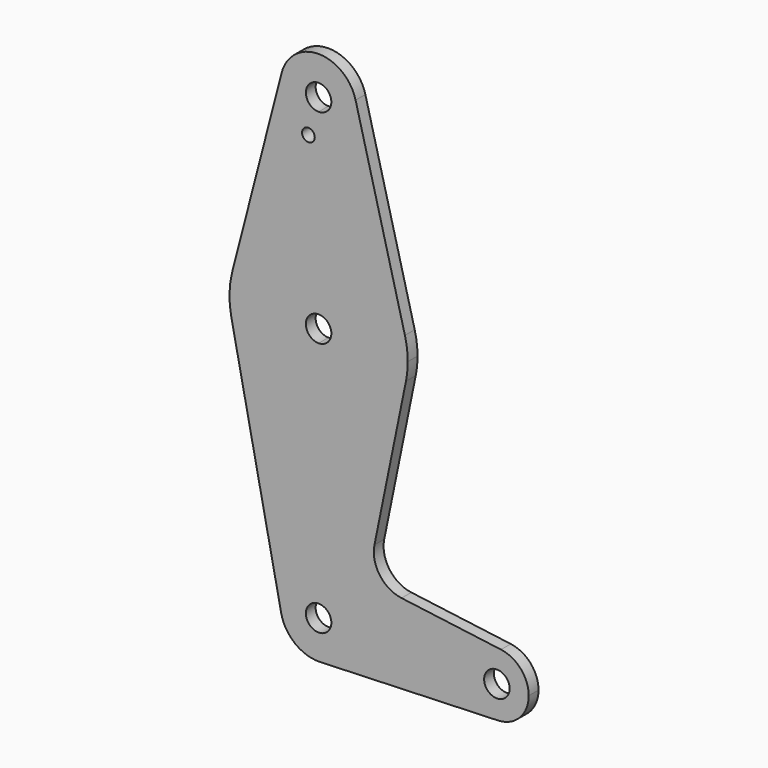
from build123d import *

# Parameters (mm, degrees)
F0_R     = 3.175
F1_DEPTH = 3.048


with BuildPart() as f1:
    # F0 (on Front) → F1 (new body)
    with BuildSketch(Plane.XZ):
        with BuildLine():
            ThreePointArc((-1.0023336327, 43.4057982907), (-0.5018639238, 43.3661433225), (0, 43.3529127479))
            ThreePointArc((0, 43.3529127479), (6.7351920908, 46.1427206571), (9.525, 52.8779127479))
            ThreePointArc((9.525, 52.8779127479), (9.4490828569, 54.0781036338), (9.2225415932, 55.2591627479))
            ThreePointArc((9.2225415932, 55.2591627479), (0, 62.4029127479), (-9.2225415932, 55.2591627479))
            ThreePointArc((-9.2225415932, 55.2591627479), (-8.6217427785, 48.8293109569), (-4.0577774611, 44.2604846468))
            ThreePointArc((-4.0577774611, 44.2604846468), (-2.3007024801, 45.3437609387), (-0.9587182239, 43.7753610313))
            ThreePointArc((-0.9587182239, 43.7753610313), (-0.9696597824, 43.5892972498), (-1.0023336327, 43.4057982907))
        make_face()
        with BuildLine():
            ThreePointArc((3.175, 52.8779127479), (2.2450640303, 50.6328487176), (0, 49.7029127479))
            ThreePointArc((0, 49.7029127479), (-2.2450640303, 55.1229767781), (3.175, 52.8779127479))
        make_face(mode=Mode.SUBTRACT)
        with BuildLine():
            ThreePointArc((9.525, 52.8779127479), (6.7351920908, 46.1427206571), (0, 43.3529127479))
            Line((0, 43.3529127479), (0, 24.3029127479))
            ThreePointArc((0, 24.3029127479), (13.6099773833, 19.6483179972), (21.5192637174, 7.6341627479))
            Line((21.5192637174, 7.6341627479), (9.2225415932, 55.2591627479))
            ThreePointArc((9.2225415932, 55.2591627479), (9.4490828569, 54.0781036338), (9.525, 52.8779127479))
        make_face()
        with BuildLine():
            Line((0, 24.3029127479), (0, 43.3529127479))
            ThreePointArc((0, 43.3529127479), (-0.5018639238, 43.3661433225), (-1.0023336327, 43.4057982907))
            ThreePointArc((-1.0023336327, 43.4057982907), (-2.9738669395, 42.2465468418), (-4.0577774611, 44.2604846468))
            ThreePointArc((-4.0577774611, 44.2604846468), (-8.6217427785, 48.8293109569), (-9.2225415932, 55.2591627479))
            Line((-9.2225415932, 55.2591627479), (-21.5192637174, 7.6341627479))
            ThreePointArc((-21.5192637174, 7.6341627479), (-13.6099773833, 19.6483179972), (0, 24.3029127479))
        make_face()
        with BuildLine():
            ThreePointArc((21.5192637174, 7.6341627479), (13.6099773833, 19.6483179972), (0, 24.3029127479))
            Line((0, 24.3029127479), (0, 5.2529127479))
            ThreePointArc((0, 5.2529127479), (2.2450640303, 4.3229767781), (3.175, 2.0779127479))
            ThreePointArc((3.175, 2.0779127479), (2.2450640303, -0.1671512824), (0, -1.0970872521))
            Line((0, -1.0970872521), (0, -20.1470872521))
            ThreePointArc((0, -20.1470872521), (14.0563241994, -15.137498226), (21.7759638133, -2.3670872521))
            ThreePointArc((21.7759638133, -2.3670872521), (22.1124560005, -0.1558989327), (22.225, 2.0779127479))
            ThreePointArc((22.225, 2.0779127479), (22.0478599995, 4.8783581483), (21.5192637174, 7.6341627479))
        make_face()
        with BuildLine():
            Line((0, 5.2529127479), (0, 24.3029127479))
            ThreePointArc((0, 24.3029127479), (-13.6099773833, 19.6483179972), (-21.5192637174, 7.6341627479))
            ThreePointArc((-21.5192637174, 7.6341627479), (-22.2176828703, 2.6481695983), (-21.7759638133, -2.3670872521))
            ThreePointArc((-21.7759638133, -2.3670872521), (-14.0563241994, -15.137498226), (0, -20.1470872521))
            Line((0, -20.1470872521), (0, -1.0970872521))
            ThreePointArc((0, -1.0970872521), (-3.175, 2.0779127479), (0, 5.2529127479))
        make_face()
        with BuildLine():
            ThreePointArc((0, -20.1470872521), (-14.0563241994, -15.137498226), (-21.7759638133, -2.3670872521))
            Line((-21.7759638133, -2.3670872521), (-9.33255592, -63.3270872521))
            ThreePointArc((-9.33255592, -63.3270872521), (-7.3780332745, -55.3979483095), (0, -51.8970872521))
            Line((0, -51.8970872521), (0, -20.1470872521))
        make_face()
        with BuildLine():
            ThreePointArc((21.7759638133, -2.3670872521), (14.0563241994, -15.137498226), (0, -20.1470872521))
            Line((0, -20.1470872521), (0, -51.8970872521))
            ThreePointArc((0, -51.8970872521), (6.7351920908, -54.6868951613), (9.525, -61.4220872521))
            ThreePointArc((9.525, -61.4220872521), (6.8544083402, -68.0359145334), (0.3401787284, -70.9410106909))
            Line((0.3401787284, -70.9410106909), (44.7334821429, -69.3545234558))
            ThreePointArc((44.7334821429, -69.3545234558), (36.5213147589, -61.0481131928), (45.4788644675, -53.5515507928))
            Line((45.4788644675, -53.5515507928), (20.682408707, -50.3100700647))
            ThreePointArc((20.682408707, -50.3100700647), (15.241157261, -47.0445132049), (13.9233460165, -40.836900747))
            Line((13.9233460165, -40.836900747), (21.7759638133, -2.3670872521))
        make_face()
        with BuildLine():
            ThreePointArc((0, -51.8970872521), (-7.3780332745, -55.3979483095), (-9.33255592, -63.3270872521))
            ThreePointArc((-9.33255592, -63.3270872521), (-5.8914064044, -68.9065348322), (0.3401787284, -70.9410106909))
            ThreePointArc((0.3401787284, -70.9410106909), (6.8544083402, -68.0359145334), (9.525, -61.4220872521))
            ThreePointArc((9.525, -61.4220872521), (6.7351920908, -54.6868951613), (0, -51.8970872521))
        make_face()
        with BuildLine():
            ThreePointArc((3.175, -61.4220872521), (-2.2450640303, -63.6671512824), (0, -58.2470872521))
            ThreePointArc((0, -58.2470872521), (2.2450640303, -59.1770232219), (3.175, -61.4220872521))
        make_face(mode=Mode.SUBTRACT)
        with BuildLine():
            ThreePointArc((45.4788644675, -53.5515507928), (36.5213147589, -61.0481131928), (44.7334821429, -69.3545234558))
            ThreePointArc((44.7334821429, -69.3545234558), (50.1620069047, -66.9336100336), (52.3875, -61.4220872521))
            ThreePointArc((52.3875, -61.4220872521), (50.4153381279, -56.1858054349), (45.4788644675, -53.5515507928))
        make_face()
        with Locations((44.45, -61.4220872521)):
            Circle(F0_R, mode=Mode.SUBTRACT)
    extrude(amount=F1_DEPTH)


solid = f1.part
